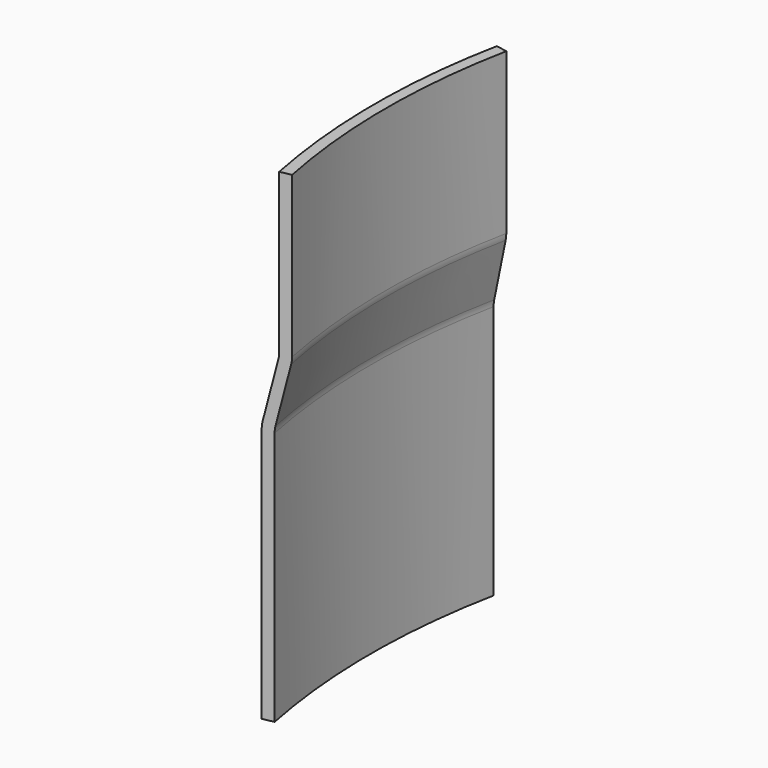
from build123d import *

# Parameters (mm, degrees)
F1_ANGLE = 22.5


with BuildPart() as f1:
    # F0 (on Front) → F1 (revolve, symmetric)
    with BuildSketch(Plane.XZ) as f1_sk:
        with BuildLine():
            Line((-153.546387, 57.245586), (-153.546387, 22.245586))
            ThreePointArc((-153.546387, 22.245586), (-153.587741, 21.542357), (-153.711231, 20.848821))
            Line((-153.711231, 20.848821), (-156.763768, 8.096466))
            ThreePointArc((-156.763768, 8.096466), (-156.887259, 7.402931), (-156.928612, 6.699702))
            Line((-156.928612, 6.699702), (-156.928612, -49.573972))
            Line((-156.928612, -49.573972), (-154.428612, -49.573972))
            Line((-154.428612, -49.573972), (-154.428612, 6.404657))
            ThreePointArc((-154.428612, 6.404657), (-154.387259, 7.107886), (-154.263768, 7.801421))
            Line((-154.263768, 7.801421), (-151.211231, 20.553776))
            ThreePointArc((-151.211231, 20.553776), (-151.087741, 21.247311), (-151.046387, 21.95054))
            Line((-151.046387, 21.95054), (-151.046387, 57.245586))
            Line((-151.046387, 57.245586), (-153.546387, 57.245586))
        make_face()
    revolve(axis=Axis((0, 0, -9.397231), (0, 0, -1)), revolution_arc=F1_ANGLE / 2)
    revolve(f1_sk.sketch, axis=Axis((0, 0, -9.397231), (0, 0, 1)), revolution_arc=F1_ANGLE / 2)


solid = f1.part
